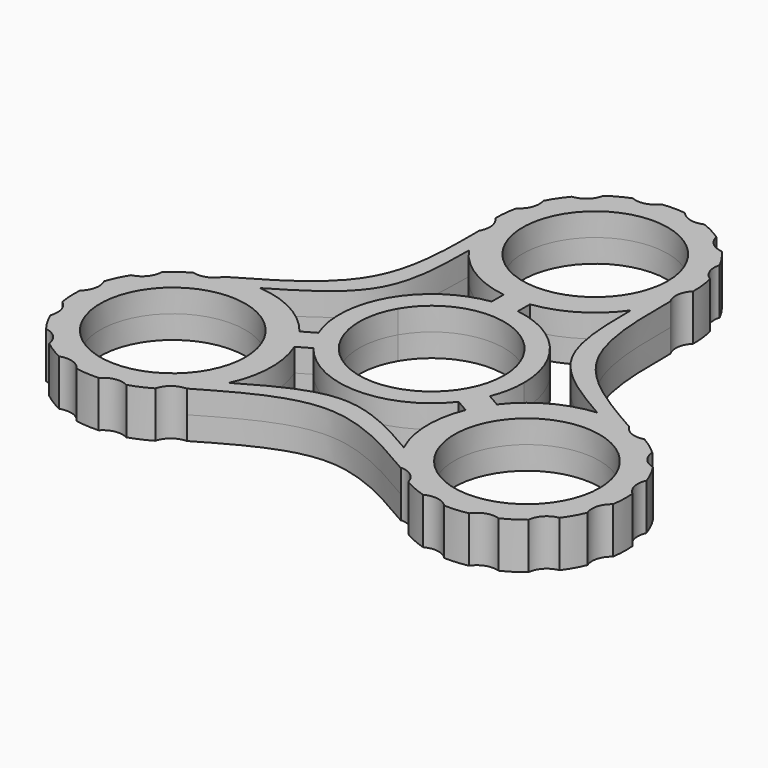
from build123d import *

# Parameters (mm, degrees)
F0_R     = 11
F1_DEPTH = 3.5


with BuildPart() as f1:
    # F0 (on Top) → F1 (new body, symmetric)
    with BuildSketch(Plane.XY):
        with BuildLine():
            ThreePointArc((-12.2872806643, 22.3963534547), (-7.7936356612, 18.1836337763), (-1.9858156028, 16.1320298497))
            ThreePointArc((-1.9858156028, 16.1320298497), (0, 16), (1.9858156028, 16.1320298497))
            ThreePointArc((1.9858156028, 16.1320298497), (7.7936356612, 18.1836337763), (12.2872806643, 22.3963534547))
            ThreePointArc((12.2872806643, 22.3963534547), (13.5946168055, 24.6607260739), (14.4888873943, 27.1177143235))
            ThreePointArc((14.4888873943, 27.1177143235), (14.1339131395, 28.0975622646), (14.1302209633, 29.1397211187))
            ThreePointArc((14.1302209633, 29.1397211187), (14.4333080068, 30.0392190625), (14.9986885379, 30.8016514607))
            ThreePointArc((14.9986885379, 30.8016514607), (14.9056831484, 32.6794671415), (14.5785033995, 34.5308977089))
            ThreePointArc((14.5785033995, 34.5308977089), (13.3272676617, 36.0455189605), (13.2617309026, 38.0090294241))
            ThreePointArc((13.2617309026, 38.0090294241), (12.3374426401, 39.5315595938), (11.2392015408, 40.9337983031))
            ThreePointArc((11.2392015408, 40.9337983031), (9.4252297695, 41.6882350601), (8.449800871, 43.3935816147))
            ThreePointArc((8.449800871, 43.3935816147), (6.9211928061, 44.3077830663), (5.2949987863, 45.0343502825))
            ThreePointArc((5.2949987863, 45.0343502825), (3.3387137913, 44.8537473316), (1.6794671415, 45.9056831484))
            ThreePointArc((1.6794671415, 45.9056831484), (-0.0991764374, 45.9996721309), (-1.8764216697, 45.8821719422))
            ThreePointArc((-1.8764216697, 45.8821719422), (-3.5216132547, 44.8083874871), (-5.4801153655, 44.9631062297))
            ThreePointArc((-5.4801153655, 44.9631062297), (-7.0965596362, 44.2150989906), (-8.612945352, 43.2807643232))
            ThreePointArc((-8.612945352, 43.2807643232), (-9.5657387682, 41.562668542), (-11.3695758472, 40.7843111692))
            ThreePointArc((-11.3695758472, 40.7843111692), (-12.4491787931, 39.3676727576), (-13.3532534686, 37.8330536221))
            ThreePointArc((-13.3532534686, 37.8330536221), (-13.3928205357, 35.8688482218), (-14.6239186827, 34.3378140093))
            ThreePointArc((-14.6239186827, 34.3378140093), (-14.9164615787, 32.580877595), (-14.9986885379, 30.8016514607))
            ThreePointArc((-14.9986885379, 30.8016514607), (-14.1158588279, 29.0465787811), (-14.4888873943, 27.1177143235))
            ThreePointArc((-14.4888873943, 27.1177143235), (-13.5946168055, 24.6607260739), (-12.2872806643, 22.3963534547))
        make_face()
        with Locations((0, 31)):
            Circle(F0_R, mode=Mode.SUBTRACT)
        with BuildLine():
            Line((-1.9858156028, 16.1320298497), (-1.9858156028, 13.8584463917))
            ThreePointArc((-1.9858156028, 13.8584463917), (0, 14), (1.9858156028, 13.8584463917))
            Line((1.9858156028, 13.8584463917), (1.9858156028, 16.1320298497))
            ThreePointArc((1.9858156028, 16.1320298497), (0, 16), (-1.9858156028, 16.1320298497))
        make_face()
        with BuildLine():
            ThreePointArc((12.9946744336, -5.2094564366), (12.124355653, -7), (11.0088588308, -8.6489899551))
            Line((11.0088588308, -8.6489899551), (12.977839863, -9.7857816841))
            ThreePointArc((12.977839863, -9.7857816841), (13.8564064606, -8), (14.9636554658, -6.3462481655))
            Line((14.9636554658, -6.3462481655), (12.9946744336, -5.2094564366))
        make_face()
        with BuildLine():
            ThreePointArc((-11.0088588308, -8.6489899551), (-12.124355653, -7), (-12.9946744336, -5.2094564366))
            Line((-12.9946744336, -5.2094564366), (-14.9636554658, -6.3462481655))
            ThreePointArc((-14.9636554658, -6.3462481655), (-13.8564064606, -8), (-12.977839863, -9.7857816841))
            Line((-12.977839863, -9.7857816841), (-11.0088588308, -8.6489899551))
        make_face()
        with BuildLine():
            ThreePointArc((-1.9858156028, 13.8584463917), (-7.8443485991, 11.5959559785), (-12.124355653, 7))
            ThreePointArc((-12.124355653, 7), (-13.9645667581, 0.9954271737), (-12.9946744336, -5.2094564366))
            ThreePointArc((-12.9946744336, -5.2094564366), (-12.124355653, -7), (-11.0088588308, -8.6489899551))
            ThreePointArc((-11.0088588308, -8.6489899551), (0, -14), (11.0088588308, -8.6489899551))
            ThreePointArc((11.0088588308, -8.6489899551), (12.124355653, -7), (12.9946744336, -5.2094564366))
            ThreePointArc((12.9946744336, -5.2094564366), (13.7463711952, -2.6527870183), (14, 0))
            ThreePointArc((14, 0), (10.5783131557, 9.1705665463), (1.9858156028, 13.8584463917))
            ThreePointArc((1.9858156028, 13.8584463917), (0, 14), (-1.9858156028, 13.8584463917))
        make_face()
        with BuildLine():
            ThreePointArc((-9.5262794416, 5.5), (2.8470094961, 10.6251840892), (11, 0))
            ThreePointArc((11, 0), (-2.8470094961, -10.6251840892), (-9.5262794416, 5.5))
        make_face(mode=Mode.SUBTRACT)
        with BuildLine():
            add(Edge.make_bspline(
                [(-12.2872806643, 22.3963534547), (-12.3339502602, 17.33987948), (-12.4273981941, 7.2151497208), (-21.1653776172, 2.035672616), (-25.5394513761, -0.5570795286)],
                knots=[0, 0, 0, 0, 0.4994181667, 1, 1, 1, 1], degree=3))
            ThreePointArc((-12.2872806643, 22.3963534547), (-13.5946168055, 24.6607260739), (-14.4888873943, 27.1177143235))
            add(Edge.make_bspline(
                [(-30.7290731939, -1.0111126057), (-25.2865284697, 2.114867038), (-14.4116832718, 8.3609424382), (-14.4631688535, 20.8693847353), (-14.4888873943, 27.1177143235)],
                knots=[0, 0, 0, 0, 0.5004710067, 1, 1, 1, 1], degree=3))
            ThreePointArc((-30.7290731939, -1.0111126057), (-28.1541236585, -0.5570795286), (-25.5394513761, -0.5570795286))
        make_face()
        with BuildLine():
            ThreePointArc((14.4888873943, 27.1177143235), (13.5946168055, 24.6607260739), (12.2872806643, 22.3963534547))
            add(Edge.make_bspline(
                [(12.2872806643, 22.3963534547), (12.3023130611, 17.2868927949), (12.3323430842, 7.0797898225), (21.1404814617, 1.9865778544), (25.5394513761, -0.5570795286)],
                knots=[0, 0, 0, 0, 0.5005789276, 1, 1, 1, 1], degree=3))
            ThreePointArc((25.5394513761, -0.5570795286), (28.1541236585, -0.5570795286), (30.7290731939, -1.0111126057))
            add(Edge.make_bspline(
                [(14.4888873943, 27.1177143235), (14.4747928154, 20.8413425093), (14.446630187, 8.3004126056), (25.3050017689, 2.0907792787), (30.7290731939, -1.0111126057)],
                knots=[0, 0, 0, 0, 0.5004710067, 1, 1, 1, 1], degree=3))
        make_face()
        with BuildLine():
            ThreePointArc((14.9636554658, -6.3462481655), (13.8564064606, -8), (12.977839863, -9.7857816841))
            ThreePointArc((12.977839863, -9.7857816841), (11.8506709528, -15.8413033586), (13.2521707118, -21.8392739261))
            ThreePointArc((13.2521707118, -21.8392739261), (14.559506853, -24.1036465453), (16.2401857995, -26.1066017178))
            ThreePointArc((16.2401857995, -26.1066017178), (18.0971457035, -26.7479817318), (19.1756683745, -28.3900710276))
            ThreePointArc((19.1756683745, -28.3900710276), (20.8484071525, -29.248433838), (22.6153829316, -29.8908031476))
            ThreePointArc((22.6153829316, -29.8908031476), (24.5527012815, -29.5645118383), (26.2859196032, -30.4895105718))
            ThreePointArc((26.2859196032, -30.4895105718), (28.0666135394, -30.4503185409), (29.8301084335, -30.2003332041))
            ThreePointArc((29.8301084335, -30.2003332041), (31.3904557163, -29.0066059469), (33.3550436041, -29.0145330185))
            ThreePointArc((33.3550436041, -29.0145330185), (34.9110693177, -28.1478203278), (36.3533919945, -27.1027786032))
            ThreePointArc((36.3533919945, -27.1027786032), (37.1751277484, -25.318284625), (38.9157542138, -24.4073027836))
            ThreePointArc((38.9157542138, -24.4073027836), (39.8864728498, -22.9139467512), (40.6733373176, -21.3160571369))
            ThreePointArc((40.6733373176, -21.3160571369), (40.5660084937, -19.3543872027), (41.6792499107, -17.7356339926))
            ThreePointArc((41.6792499107, -17.7356339926), (41.8396787748, -15.9617485709), (41.7887140751, -14.1813526853))
            ThreePointArc((41.7887140751, -14.1813526853), (40.7771961905, -12.4971614918), (41.0050374719, -10.5458140707))
            ThreePointArc((41.0050374719, -10.5458140707), (40.3179940925, -8.9025312877), (39.4410122738, -7.3522700841))
            ThreePointArc((39.4410122738, -7.3522700841), (37.7597440324, -6.3359012987), (37.0493785839, -4.5042219226))
            ThreePointArc((37.0493785839, -4.5042219226), (35.6740984643, -3.3724041358), (34.1743569124, -2.4115804331))
            ThreePointArc((34.1743569124, -2.4115804331), (32.2130045314, -2.2985970493), (30.7290731939, -1.0111126057))
            ThreePointArc((30.7290731939, -1.0111126057), (28.1541236585, -0.5570795286), (25.5394513761, -0.5570795286))
            ThreePointArc((25.5394513761, -0.5570795286), (19.644306614, -2.3423304177), (14.9636554658, -6.3462481655))
        make_face()
        with Locations((26.8467875173, -15.5)):
            Circle(F0_R, mode=Mode.SUBTRACT)
        with BuildLine():
            add(Edge.make_bspline(
                [(-13.2521707118, -21.8392739261), (-8.8498138423, -19.3014829213), (-0.0348937024, -14.2200173103), (8.8197317824, -19.2975620337), (13.2521707118, -21.8392739261)],
                knots=[0, 0, 0, 0, 0.4994210724, 1, 1, 1, 1], degree=3))
            ThreePointArc((-13.2521707118, -21.8392739261), (-14.559506853, -24.1036465453), (-16.2401857995, -26.1066017178))
            add(Edge.make_bspline(
                [(16.3813667404, -26.2459279712), (10.9312657247, -23.0359426949), (0.0491808111, -16.6266427117), (-10.8164268244, -22.950124614), (-16.2401857995, -26.1066017178)],
                knots=[0, 0, 0, 0, 0.5008324286, 1, 1, 1, 1], degree=3))
            ThreePointArc((16.3813667404, -26.2459279712), (16.3105459694, -26.1764982108), (16.2401857995, -26.1066017178))
            ThreePointArc((16.2401857995, -26.1066017178), (14.559506853, -24.1036465453), (13.2521707118, -21.8392739261))
        make_face()
        with BuildLine():
            ThreePointArc((-12.977839863, -9.7857816841), (-13.8564064606, -8), (-14.9636554658, -6.3462481655))
            ThreePointArc((-14.9636554658, -6.3462481655), (-19.644306614, -2.3423304177), (-25.5394513761, -0.5570795286))
            ThreePointArc((-25.5394513761, -0.5570795286), (-28.1541236585, -0.5570795286), (-30.7290731939, -1.0111126057))
            ThreePointArc((-30.7290731939, -1.0111126057), (-32.2130045314, -2.2985970493), (-34.1743569124, -2.4115804331))
            ThreePointArc((-34.1743569124, -2.4115804331), (-35.7540903009, -3.4310333035), (-37.1938863311, -4.6400945613))
            ThreePointArc((-37.1938863311, -4.6400945613), (-37.8799689433, -6.4810071222), (-39.5476505057, -7.5195188523))
            ThreePointArc((-39.5476505057, -7.5195188523), (-40.4040561795, -9.0812410529), (-41.0693099742, -10.733465099))
            ThreePointArc((-41.0693099742, -10.733465099), (-40.8156854858, -12.6816291132), (-41.804844475, -14.3790485962))
            ThreePointArc((-41.804844475, -14.3790485962), (-41.8322621239, -16.1599627386), (-41.6483907808, -17.9315716793))
            ThreePointArc((-41.6483907808, -17.9315716793), (-40.5138415398, -19.5354627066), (-40.5952213554, -21.4983803648))
            ThreePointArc((-40.5952213554, -21.4983803648), (-39.7872964124, -23.0857253797), (-38.7969156479, -24.5661148053))
            ThreePointArc((-38.7969156479, -24.5661148053), (-37.0443952391, -25.4540002844), (-36.1991345452, -27.227472237))
            ThreePointArc((-36.1991345452, -27.227472237), (-34.7431191386, -28.2533504197), (-33.1757687231, -29.0994116379))
            ThreePointArc((-33.1757687231, -29.0994116379), (-31.2114574223, -29.0655070502), (-29.6354616248, -30.2384970985))
            ThreePointArc((-29.6354616248, -30.2384970985), (-27.8688152994, -30.4651414698), (-26.0877588052, -30.4807835381))
            ThreePointArc((-26.0877588052, -30.4807835381), (-24.3669234967, -29.5329469231), (-22.4254599012, -29.8335920868))
            ThreePointArc((-22.4254599012, -29.8335920868), (-20.7576368855, -29.2084734593), (-19.1756683745, -28.3900710276))
            ThreePointArc((-19.1756683745, -28.3900710276), (-18.0971457035, -26.7479817318), (-16.2401857995, -26.1066017178))
            ThreePointArc((-16.2401857995, -26.1066017178), (-14.559506853, -24.1036465453), (-13.2521707118, -21.8392739261))
            ThreePointArc((-13.2521707118, -21.8392739261), (-11.8506709528, -15.8413033586), (-12.977839863, -9.7857816841))
        make_face()
        with Locations((-26.8467875173, -15.5)):
            Circle(F0_R, mode=Mode.SUBTRACT)
    extrude(amount=F1_DEPTH, both=True)


solid = f1.part
